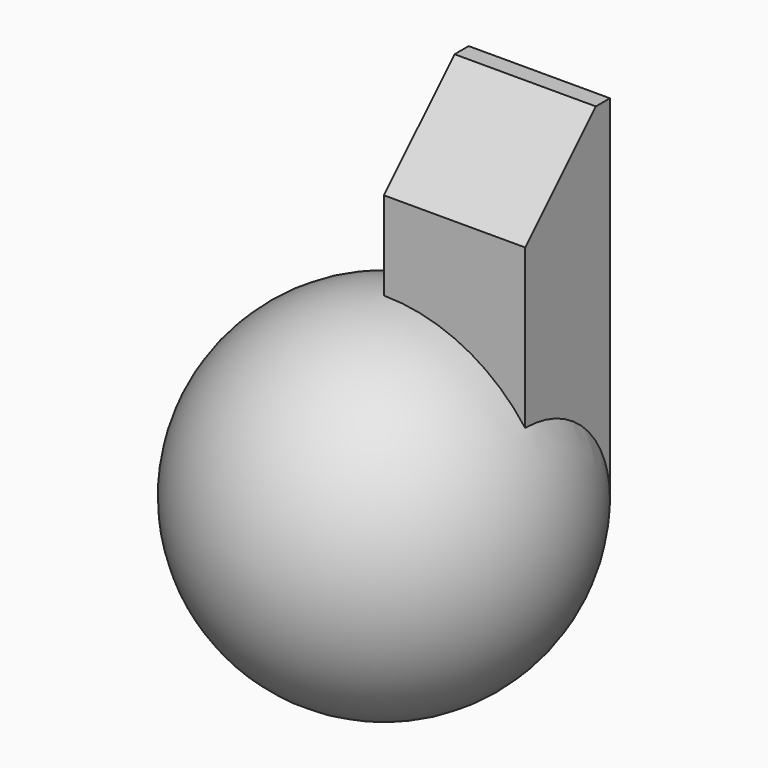
from build123d import *

# Parameters (mm, degrees)
F2_W     = 40.64
F2_H     = 30.48
F3_DEPTH = 101.6
F4_SIZE  = 25.4


with BuildPart() as f1:
    # F0 (on Top) → F1 (revolve)
    with BuildSketch(Plane.XY):
        with BuildLine():
            Line((0, -50.8), (0, 50.8))
            ThreePointArc((0, 50.8), (-50.8, 0), (0, -50.8))
        make_face()
    revolve(axis=Axis((0, 0, 0), (0, -1, 0)))

    # F2 (on Top) → F3 (join)
    with BuildSketch(Plane.XY):
        with Locations((20.32, 15.24)):
            Rectangle(F2_W, F2_H)
    extrude(amount=F3_DEPTH)

    # F4
    f4_edges = [f1.edges().sort_by_distance(p)[0] for p in [
        (20.32, 0, 101.6),
    ]]
    chamfer(f4_edges, length=F4_SIZE)


solid = f1.part
